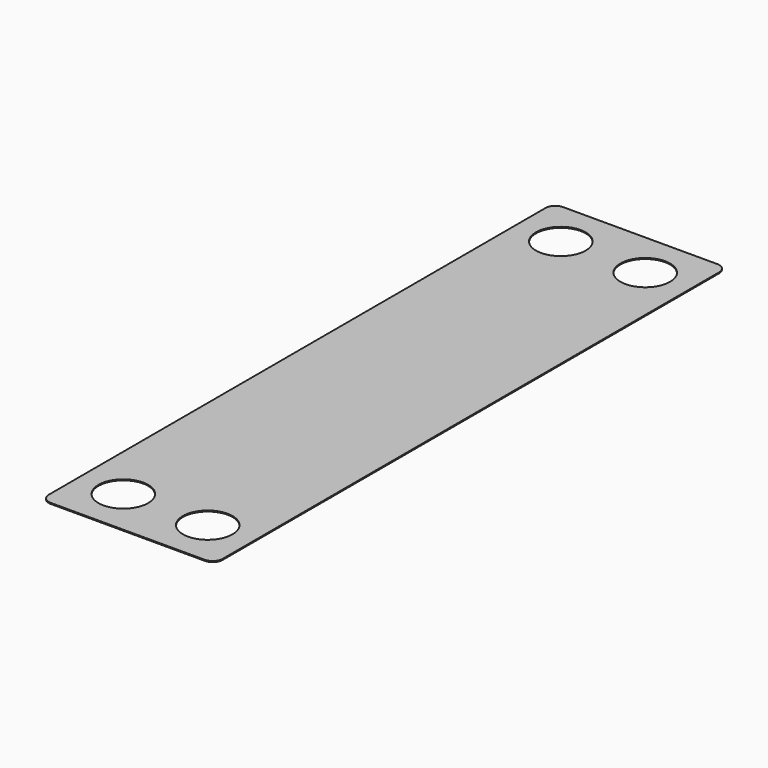
from build123d import *

# Parameters (mm, degrees)
F0_W     = 88.9
F0_H     = 327.66
F0_R     = 12.7
F0_R_2   = 12.706316
F1_DEPTH = 0.5
F2_R     = 5.08


with BuildPart() as f1:
    # F0 (on Top) → F1 (new body)
    with BuildSketch(Plane.XY):
        with Locations((-0.63062, 10.170323)):
            Rectangle(F0_W, F0_H)
        with Locations((-22.22062, -129.529677)):
            Circle(F0_R, mode=Mode.SUBTRACT)
        with Locations((20.95938, -129.529677)):
            Circle(F0_R, mode=Mode.SUBTRACT)
        with Locations((-22.221837, 150.230261)):
            Circle(F0_R_2, mode=Mode.SUBTRACT)
        with Locations((20.960597, 150.230261)):
            Circle(F0_R_2, mode=Mode.SUBTRACT)
    extrude(amount=F1_DEPTH)

    # F2
    f2_edges = [f1.edges().sort_by_distance(p)[0] for p in [
        (-45.08062, 174.000323, 0.25),
        (43.81938, 174.000323, 0.25),
        (43.81938, -153.659677, 0.25),
        (-45.08062, -153.659677, 0.25),
    ]]
    fillet(f2_edges, radius=F2_R)


solid = f1.part
